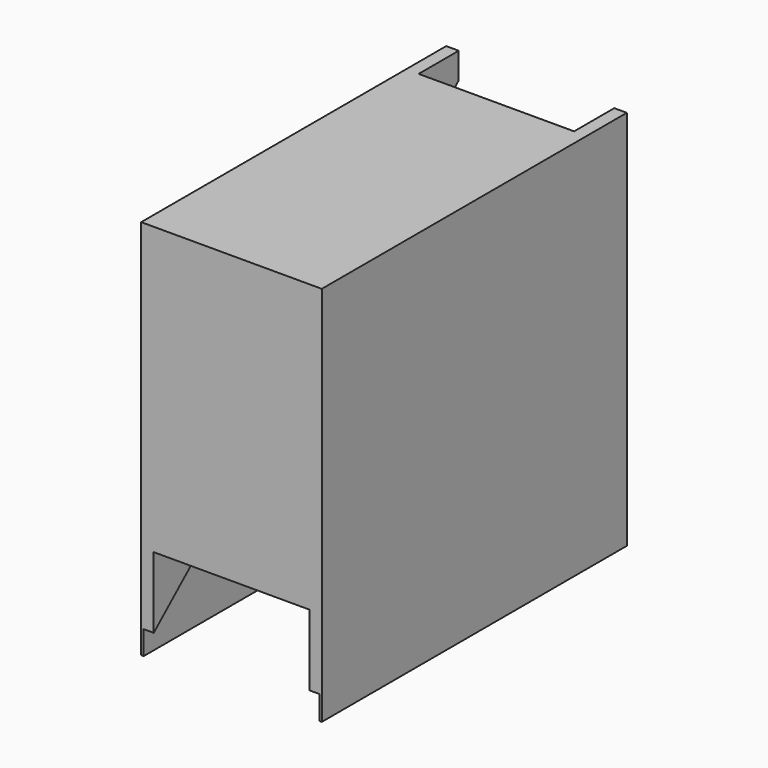
from build123d import *

# Parameters (mm, degrees)
F0_W          = 914.4
F0_H          = 1930.4
F1_DEPTH      = 1930.4
F3_DEPTH      = 393.7
F3_DEPTH_BACK = 393.7
F5_DEPTH      = 444.5
F5_DEPTH_BACK = 444.5
F6_W          = 254
F6_H          = 50.8
F6_W_2        = 203.2
F7_DEPTH      = 482.6
F8_W          = 254
F8_H          = 50.8
F9_DEPTH      = 1397
F10_W         = 254
F10_H         = 50.8
F11_DEPTH     = 939.8


with BuildPart() as f1:
    # F0 (on Front) → F1 (new body)
    with BuildSketch(Plane.XZ):
        Rectangle(F0_W, F0_H)
    extrude(amount=F1_DEPTH)

    # F2 (on Right) → F3 (cut, two sides)
    with BuildSketch(Plane.YZ) as f3_sk:
        Polygon((81.8748995662, 971.9918370247), (-254, 965.2), (-254, 762), (-482.6, 762), (-482.6, 558.8), (-711.2, 558.8), (-711.2, 355.6), (-939.8, 355.6), (-939.8, 152.4), (-1168.4, 152.4), (-1168.4, -50.8), (-1397, -50.8), (-1397, -254), (-1625.6, -254), (-1625.6, -485.139220953), (-1930.4, -485.139220953), (-1930.4, -969.014108181), (215.3691798449, -969.014108181), align=None)
    extrude(amount=-F3_DEPTH, mode=Mode.SUBTRACT)
    extrude(f3_sk.sketch, amount=F3_DEPTH_BACK, mode=Mode.SUBTRACT)

    # F4 (on Right) → F5 (cut, two sides)
    with BuildSketch(Plane.YZ) as f5_sk:
        Polygon((233.0105304718, -1000.3662109375), (0, 832.7655792236), (-1940.5599832535, -853.7156581879), (-2034.8353385925, -1000.3662109375), align=None)
    extrude(amount=-F5_DEPTH, mode=Mode.SUBTRACT)
    extrude(f5_sk.sketch, amount=F5_DEPTH_BACK, mode=Mode.SUBTRACT)

    # F6 (on face) → F7 (join, through all)
    with BuildSketch(Plane(origin=(0, 0, 0), x_dir=(-1, 0, 0), z_dir=(0, 1, 0))):
        with Locations((-317.5, -463.55)):
            Rectangle(F6_W, F6_H)
        with Locations((-317.5, -25.4)):
            Rectangle(F6_W, F6_H)
        with Locations((-342.9, 279.4)):
            Rectangle(F6_W_2, F6_H)
        with Locations((-342.9, 584.2)):
            Rectangle(F6_W_2, F6_H)
    extrude(amount=-F7_DEPTH)

    # F8 (on face) → F9 (join, through all)
    with BuildSketch(Plane(origin=(0, 0, 0), x_dir=(-1, 0, 0), z_dir=(0, 1, 0))):
        with Locations((-317.5, -463.55)):
            Rectangle(F8_W, F8_H)
    extrude(amount=-F9_DEPTH)

    # F10 (on face) → F11 (join, through all)
    with BuildSketch(Plane(origin=(0, 0, 0), x_dir=(-1, 0, 0), z_dir=(0, 1, 0))):
        with Locations((-317.5, -25.4)):
            Rectangle(F10_W, F10_H)
    extrude(amount=-F11_DEPTH)


solid = f1.part
